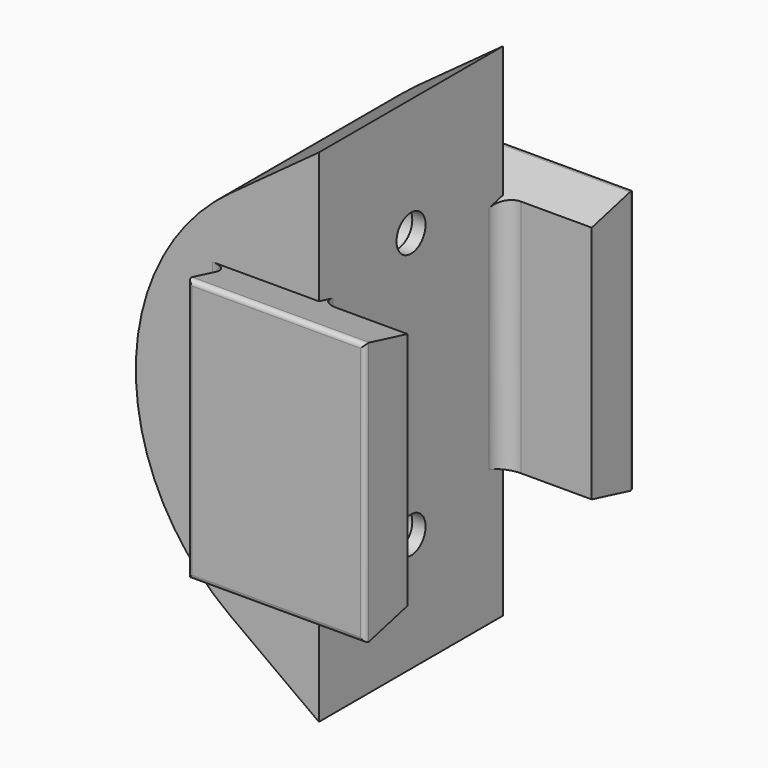
from build123d import *

# Parameters (mm, degrees)
PAD001_DEPTH    = 26
SKETCH003_R     = 2.05
POCKET_DEPTH    = 12
SKETCH005_R     = 2.4
POCKET001_DEPTH = 10.5
PAD004_DEPTH    = 10
FILLET006_R     = 2
FILLET007_R     = 0.5
FILLET008_R     = 2


with BuildPart() as part:
    # Sketch001 → Pad001 (new body)
    with BuildSketch(Plane.XZ):
        with BuildLine():
            ThreePointArc((-35, 21), (-45.67029, 0), (-35, -21))
            Line((-35, -21), (-25, -28.299822))
            Line((-25, 28.299822), (-25, -28.299822))
            Line((-35, 21), (-25, 28.299822))
        make_face()
    extrude(amount=PAD001_DEPTH)

    # Sketch003 (on Face3 of Pad001) → Pocket (cut)
    with BuildSketch(Plane(origin=(-25, 0, 0), x_dir=(0, 0, 1), z_dir=(1, 0, 0))):
        with Locations((-15, 13)):
            Circle(SKETCH003_R)
        with Locations((15, 13)):
            Circle(SKETCH003_R)
    extrude(amount=-POCKET_DEPTH, mode=Mode.SUBTRACT)

    # Sketch005 (on Face9 of Pocket) → Pocket001 (cut)
    with BuildSketch(Plane(origin=(-37, 0, 0), x_dir=(0, 0, 1), z_dir=(1, 0, 0))):
        with Locations((-15, 13)):
            Circle(SKETCH005_R)
        with Locations((15, 13)):
            Circle(SKETCH005_R)
    extrude(amount=POCKET001_DEPTH, mode=Mode.SUBTRACT)

    # Sketch006 (on Face6 of Pocket001) → Pad004 (join, symmetric)
    with BuildSketch(Plane(origin=(-25, 0, 0), x_dir=(0, 0, 1), z_dir=(1, 0, 0))):
        Polygon((-13.504032, 26), (13.504032, 26), (15, 32), (-15, 32), align=None)
        Polygon((-13.504032, 0), (13.504032, 0), (15, -6), (-15, -6), align=None)
    extrude(amount=PAD004_DEPTH, both=True)

    # Fillet006
    fillet006_edges = [part.edges().sort_by_distance(p)[0] for p in [
        (-25, -26, 0),
        (-25, 0, 0),
        (-35, 0, 0),
        (-35, -26, 0),
    ]]
    fillet(fillet006_edges, radius=FILLET006_R)

    # Fillet007
    fillet007_edges = [part.edges().sort_by_distance(p)[0] for p in [
        (-15, 6, 0),
        (-25, 6, -15),
        (-35, 6, 0),
        (-25, 6, 15),
        (-25, -32, 15),
        (-15, -32, 0),
        (-25, -32, -15),
        (-35, -32, 0),
    ]]
    fillet(fillet007_edges, radius=FILLET007_R)

    # Fillet008
    fillet008_edges = [part.edges().sort_by_distance(p)[0] for p in [
        (-37, -13, 12.6),
        (-37, -13, -17.4),
    ]]
    fillet(fillet008_edges, radius=FILLET008_R)


with BuildPart() as part_1:
    # Body001 placement: moved
    add(part.part.moved(Location((0, 0.5, 0))))


solid = part_1.part
